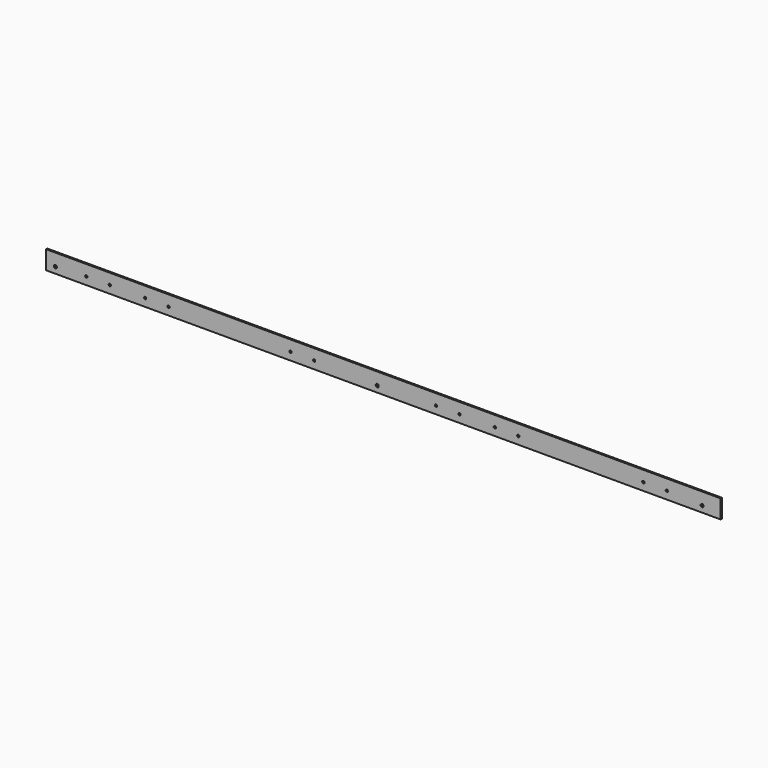
from build123d import *

# Parameters (mm, degrees)
F0_W     = 1384.3
F0_H     = 38.1
F1_DEPTH = 3.175
F2_R     = 3.175
F3_DEPTH = 3.176
F4_R     = 2.38125
F5_DEPTH = 3.176


with BuildPart() as f1:
    # F0 (on Front) → F1 (new body)
    with BuildSketch(Plane.XZ):
        with Locations((692.15, 19.05)):
            Rectangle(F0_W, F0_H)
    extrude(amount=-F1_DEPTH)

    # F2 (on face) → F3 (cut, through all)
    with BuildSketch(Plane.XZ):
        with Locations((1346.2, 12.7)):
            Circle(F2_R)
        with Locations((679.45, 12.7)):
            Circle(F2_R)
        with Locations((19.05, 12.7)):
            Circle(F2_R)
    extrude(amount=-F3_DEPTH, mode=Mode.SUBTRACT)

    # F4 (on face) → F5 (cut, through all)
    with BuildSketch(Plane.XZ):
        with Locations((82.55, 15.875)):
            Circle(F4_R)
        with Locations((130.81, 15.875)):
            Circle(F4_R)
        with Locations((203.2, 15.875)):
            Circle(F4_R)
        with Locations((251.46, 15.875)):
            Circle(F4_R)
        with Locations((501.65, 15.875)):
            Circle(F4_R)
        with Locations((549.91, 15.875)):
            Circle(F4_R)
        with Locations((920.75, 15.875)):
            Circle(F4_R)
        with Locations((969.01, 15.875)):
            Circle(F4_R)
        with Locations((1225.55, 15.875)):
            Circle(F4_R)
        with Locations((1273.81, 15.875)):
            Circle(F4_R)
        with Locations((800.1, 15.875)):
            Circle(F4_R)
        with Locations((848.36, 15.875)):
            Circle(F4_R)
    extrude(amount=-F5_DEPTH, mode=Mode.SUBTRACT)


solid = f1.part
